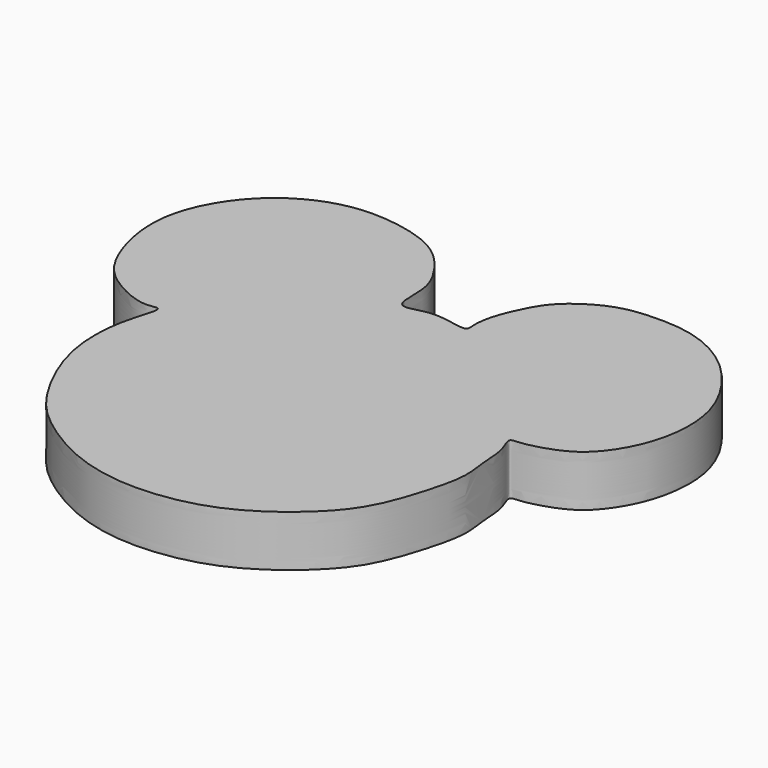
from build123d import *

# Parameters (mm, degrees)
F1_DEPTH = 5


with BuildPart() as f1:
    # F0 (on Top) → F1 (new body)
    with BuildSketch(Plane.XY):
        with BuildLine():
            add(Edge.make_bspline(
                [(-32.2620943189, 38.1633676589), (-31.8529555104, 37.8240094584), (-29.9701742714, 38.6663489589), (-27.6326245624, 38.2879139783), (-25.7378730517, 37.8943222947), (-25.9940512958, 39.0477998776), (-25.7232906066, 41.02016666), (-24.6150877628, 43.5558924945), (-23.2673919434, 45.8696286875), (-19.6557618675, 48.2200386849), (-16.097990747, 48.6158953613), (-11.9483948891, 48.4706787035), (-7.3116952958, 46.2239167649), (-3.6221460667, 41.500325533), (-2.3541067169, 36.8595700252), (-3.1501307802, 31.9846850477), (-5.2594944532, 28.5842955756), (-7.3412172546, 26.909619952), (-10.706393354, 25.8831482781), (-12.2611601156, 26.0307383092), (-11.2097155234, 24.2108345846), (-11.2090574356, 21.5354006861), (-10.7016413746, 19.1377821805), (-11.5707888813, 15.5133491812), (-12.797522199, 11.7150119738), (-14.5397691848, 8.8078952757), (-17.8844804554, 5.6064213147), (-22.9484053738, 2.4911289582), (-30.0707291794, 1.4783569282), (-36.0109889653, 2.879597675), (-40.7458705474, 5.8028044852), (-43.9493070251, 8.7972356391), (-46.9330131526, 14.5999602392), (-47.6667472658, 19.3738050828), (-47.1580426936, 23.3191013097), (-45.9244929139, 26.46402233), (-47.8388741834, 25.6631277478), (-51.3736084821, 27.2359913009), (-53.9704394473, 29.6012243651), (-55.7525213544, 34.7762846703), (-55.5405810044, 40.0285211793), (-52.0616057262, 45.6259649757), (-46.6065290491, 48.5228636602), (-41.4954814512, 48.6433901964), (-36.3367644079, 47.2636705324), (-33.6754422246, 43.953955432), (-32.3862313121, 41.3847132175), (-32.7396189163, 38.5594481204), (-32.2620943189, 38.1633676589)],
                knots=[0, 0, 0, 0, 0.0166013634, 0.0351908912, 0.0488306369, 0.0587170846, 0.0748122646, 0.0936085969, 0.1121460955, 0.1350658388, 0.1564733182, 0.1791703344, 0.2045687227, 0.2319374679, 0.2565418427, 0.2814075239, 0.303582855, 0.3222088421, 0.343503686, 0.3547598248, 0.3686619225, 0.3875489744, 0.4051800851, 0.4268269676, 0.449518955, 0.4701331145, 0.4941291008, 0.5217092876, 0.5517686831, 0.5796860403, 0.6058780874, 0.6296090075, 0.6581620348, 0.6830569483, 0.7063897718, 0.7239163718, 0.736181594, 0.75812717, 0.7795006498, 0.8053095769, 0.8311002672, 0.8595194805, 0.8870996737, 0.9125350225, 0.9382339311, 0.9608889677, 0.9806237903, 1, 1, 1, 1], degree=3))
        make_face()
    extrude(amount=F1_DEPTH)


solid = f1.part
